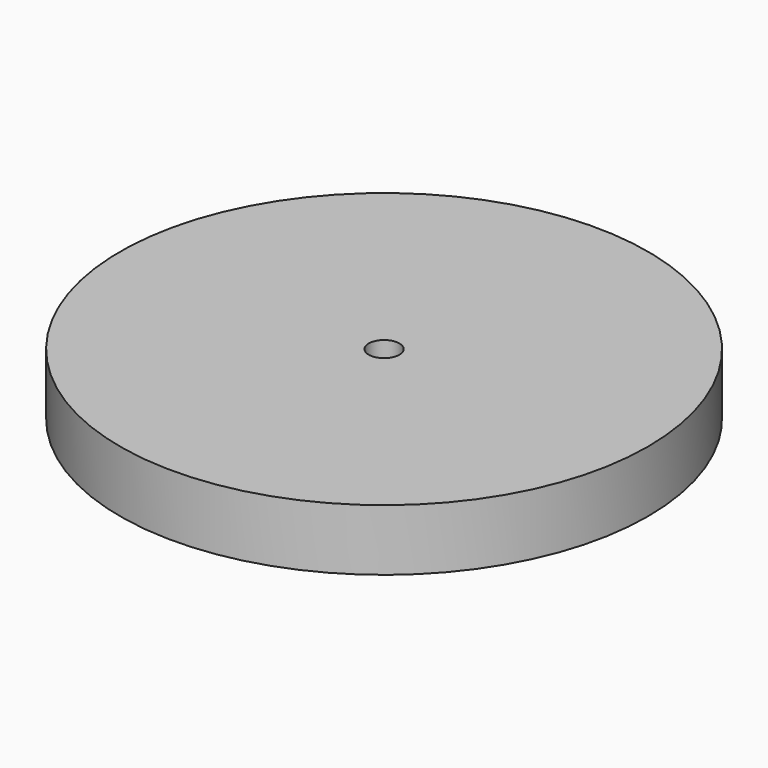
from build123d import *

# Parameters (mm, degrees)
SKETCH_R   = 43
SKETCH_R_2 = 2.5
PAD_DEPTH  = 10


with BuildPart() as part:
    # Sketch → Pad (new body)
    with BuildSketch(Plane.XY):
        Circle(SKETCH_R)
        Circle(SKETCH_R_2, mode=Mode.SUBTRACT)
    extrude(amount=PAD_DEPTH)


solid = part.part
